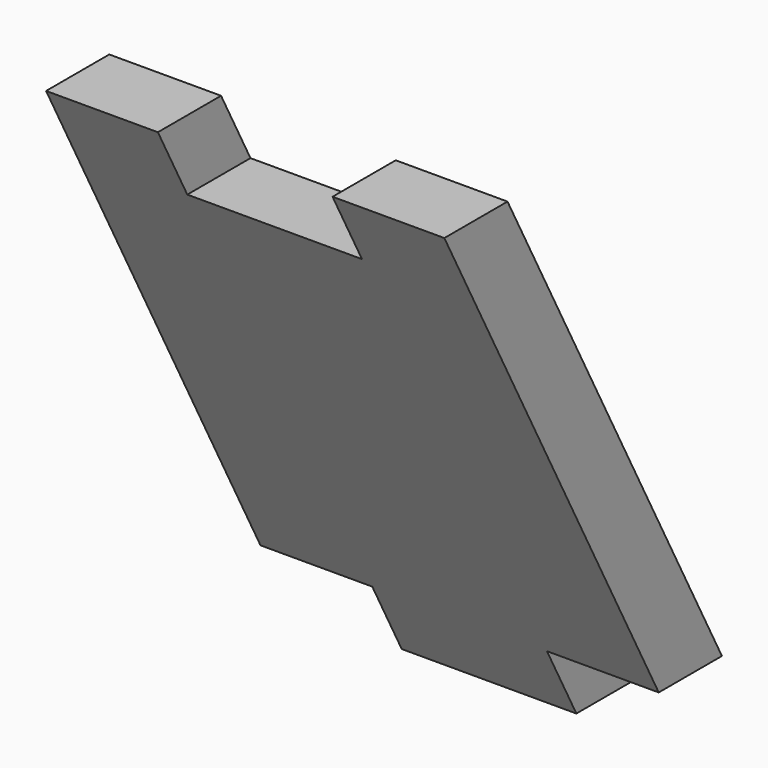
from build123d import *

# Parameters (mm, degrees)
PAD050_DEPTH            = 57
POCKET044_DEPTH         = 16
POCKET046_DEPTH         = 16
SKETCH090_W             = 20
SKETCH090_H             = 25
POCKET045_DEPTH         = 10
BODY022_PLACEMENT_ANGLE = 180


with BuildPart() as part:
    # Sketch092 → Pad050 (new body)
    with BuildSketch(Plane.YZ):
        Polygon((54.734671, -10), (98.357923, 72.85), (87.056432, 72.85), (43.43318, -10), align=None)
    extrude(amount=-PAD050_DEPTH)

    # Sketch089 (on Face5 of Pad050) → Pocket044 (cut)
    with BuildSketch(Plane.YZ):
        Polygon((43.43318, -10), (54.734671, -10), (60, 0), (48.698509, 0), align=None)
    extrude(amount=-POCKET044_DEPTH, mode=Mode.SUBTRACT)

    # Sketch094 (on Face6 of Pocket044) → Pocket046 (cut)
    with BuildSketch(Plane(origin=(-57, 0, 0), x_dir=(0, 1, 0), z_dir=(-1, 0, 0))):
        Polygon((43.43318, 10), (54.734671, 10), (60, 0), (48.698509, 0), align=None)
    extrude(amount=-POCKET046_DEPTH, mode=Mode.SUBTRACT)

    # Sketch090 (on Face5 of Pocket046) → Pocket045 (cut)
    with BuildSketch(Plane(origin=(0, 0, 72.85), x_dir=(0, -1, 0), z_dir=(0, 0, 1))):
        with Locations((-88.357923, -28.5)):
            Rectangle(SKETCH090_W, SKETCH090_H)
    extrude(amount=-POCKET045_DEPTH, mode=Mode.SUBTRACT)


with BuildPart() as part_1:
    # Body022 placement: moved
    add(part.part.moved(Location((-57, 295, 0))).rotate(Axis((-57, 295, 0), (0, 0, 1)), BODY022_PLACEMENT_ANGLE))


solid = part_1.part
